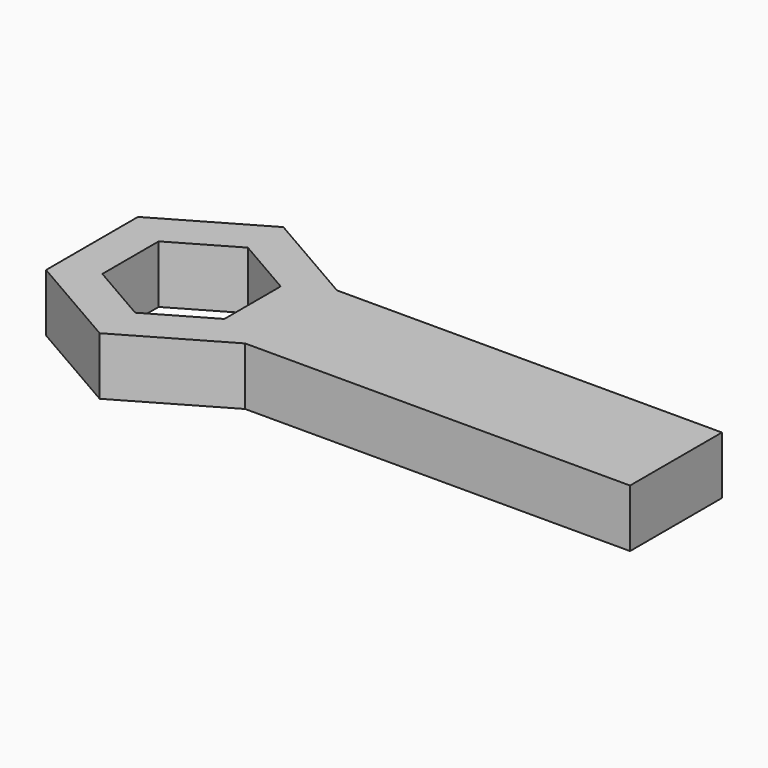
from build123d import *

# Parameters (mm, degrees)
F1_DEPTH = 3.81
F2_DEPTH = 25.4


with BuildPart() as f1:
    # F0 (on Top) → F1 (new body)
    with BuildSketch(Plane.XY):
        Polygon((6.5642443103, 3.7926732977), (-0.0024292689, 7.5811389783), (-6.5666735793, 3.7884656805), (-6.5642443103, -3.7926732977), (0.0024292689, -7.5811389783), (6.5666735793, -3.7884656805), align=None)
        Polygon((-4.0262038002, 2.3228099792), (-0.00148945, 4.6481997614), (4.0247143502, 2.3253897822), (4.0262038002, -2.3228099792), (0.00148945, -4.6481997614), (-4.0247143502, -2.3253897822), align=None, mode=Mode.SUBTRACT)
    extrude(amount=F1_DEPTH)

    # F2 (add): a face of the model
    f2_faces = [f1.faces().sort_by_distance(p)[0] for p in [
        (6.5654589448, 0.0021038086, 1.905),
    ]]
    extrude(f2_faces, amount=F2_DEPTH)


solid = f1.part
